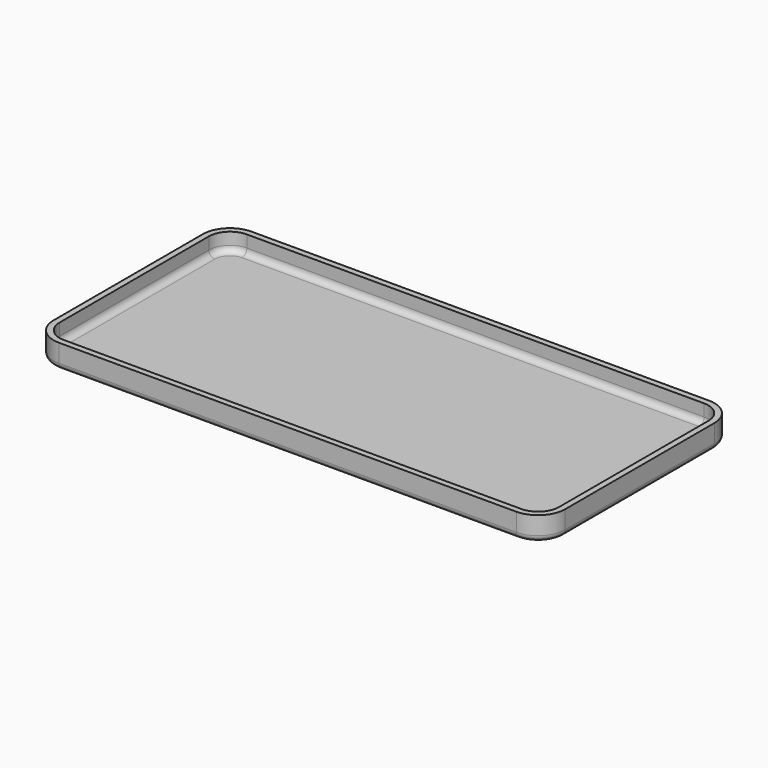
from build123d import *

# Parameters (mm, degrees)
F1_DEPTH = 8
F2_T     = -2
F3_R     = 2
F4_R     = 2


with BuildPart() as f1:
    # F0 (on Top) → F1 (new body)
    with BuildSketch(Plane.XY):
        with BuildLine():
            ThreePointArc((-85, -31), (-82.3639610307, -37.3639610307), (-76, -40))
            Line((-76, -40), (76, -40))
            ThreePointArc((76, -40), (82.3639610307, -37.3639610307), (85, -31))
            Line((85, -31), (85, 31))
            ThreePointArc((85, 31), (82.3639610307, 37.3639610307), (76, 40))
            Line((76, 40), (-76, 40))
            ThreePointArc((-76, 40), (-82.3639610307, 37.3639610307), (-85, 31))
            Line((-85, 31), (-85, -31))
        make_face()
    extrude(amount=F1_DEPTH)

    # F2
    f2_openings = [f1.faces().sort_by_distance(p)[0] for p in [
        (0, 0, 8),
    ]]
    offset(amount=F2_T, openings=f2_openings)

    # F3
    f3_edges = [f1.edges().sort_by_distance(p)[0] for p in [
        (0, 38, 2),
    ]]
    fillet(f3_edges, radius=F3_R)

    # F4
    f4_edges = [f1.edges().sort_by_distance(p)[0] for p in [
        (0, -40, 0),
    ]]
    fillet(f4_edges, radius=F4_R)


solid = f1.part
